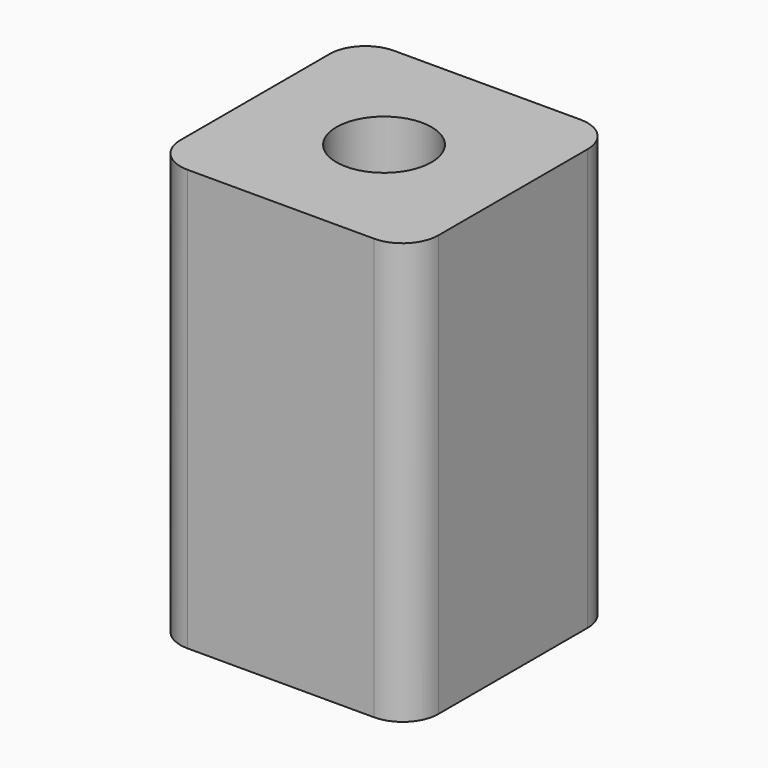
from build123d import *

# Parameters (mm, degrees)
SKETCH_W    = 8.255
SKETCH_H    = 8.255
PAD_DEPTH   = 13.4874
SKETCH001_R = 1.524
HOLE_DEPTH  = 24.9936
FILLET_R    = 1.143


with BuildPart() as part:
    # Sketch → Pad (new body)
    with BuildSketch(Plane.XY):
        Rectangle(SKETCH_W, SKETCH_H)
    extrude(amount=PAD_DEPTH)

    # Sketch001 (on Face6 of Pad) → Hole (cut)
    with BuildSketch(Plane.XY.offset(13.4874)):
        Circle(SKETCH001_R)
    extrude(amount=-HOLE_DEPTH, mode=Mode.SUBTRACT)

    # Fillet
    fillet_edges = [part.edges().sort_by_distance(p)[0] for p in [
        (-4.1275, 4.1275, 6.7437),
        (-4.1275, -4.1275, 6.7437),
        (4.1275, -4.1275, 6.7437),
        (4.1275, 4.1275, 6.7437),
    ]]
    fillet(fillet_edges, radius=FILLET_R)


solid = part.part
